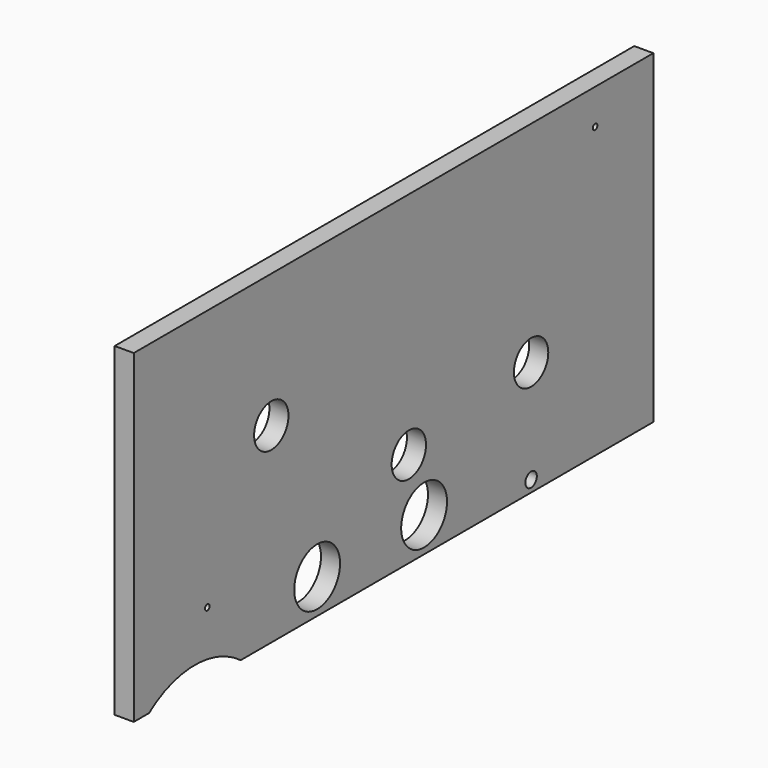
from build123d import *

# Parameters (mm, degrees)
F0_R     = 1.905
F0_R_2   = 14.2875
F0_R_3   = 4.7625
F1_DEPTH = 12.7
F2_R     = 19.05
F3_DEPTH = 25.4
F4_W     = 431.8
F4_H     = 139.7
F5_DEPTH = 12.7


with BuildPart() as f1:
    # F0 (on Right) → F1 (new body)
    with BuildSketch(Plane.YZ):
        with BuildLine():
            Line((0, 355.6), (0, 0))
            Line((0, 0), (12.7, 0))
            ThreePointArc((12.7, 0), (50.8, 12.7), (88.9, 0))
            Line((88.9, 0), (431.8, 0))
            Line((431.8, 0), (431.8, 355.6))
            Line((431.8, 355.6), (0, 355.6))
        make_face()
        with Locations((61.096733, 42.182442)):
            Circle(F0_R, mode=Mode.SUBTRACT)
        with Locations((228.6, 63.5)):
            Circle(F0_R_2, mode=Mode.SUBTRACT)
        with Locations((330.2, 7.62)):
            Circle(F0_R_3, mode=Mode.SUBTRACT)
        with Locations((330.2, 76.2)):
            Circle(F0_R_2, mode=Mode.SUBTRACT)
        with Locations((114.3, 127)):
            Circle(F0_R_2, mode=Mode.SUBTRACT)
        with Locations((383.379782, 192.465496)):
            Circle(F0_R, mode=Mode.SUBTRACT)
    extrude(amount=F1_DEPTH)

    # F2 (on face) → F3 (cut)
    with BuildSketch(Plane.YZ.offset(12.7)):
        with Locations((152.4, 23.05)):
            Circle(F2_R)
        with Locations((241.3, 23.05)):
            Circle(F2_R)
    extrude(amount=-F3_DEPTH, mode=Mode.SUBTRACT)

    # F4 (on face) → F5 (cut, through all)
    with BuildSketch(Plane.YZ.offset(12.7)):
        with Locations((215.9, 285.75)):
            Rectangle(F4_W, F4_H)
    extrude(amount=-F5_DEPTH, mode=Mode.SUBTRACT)


solid = f1.part
